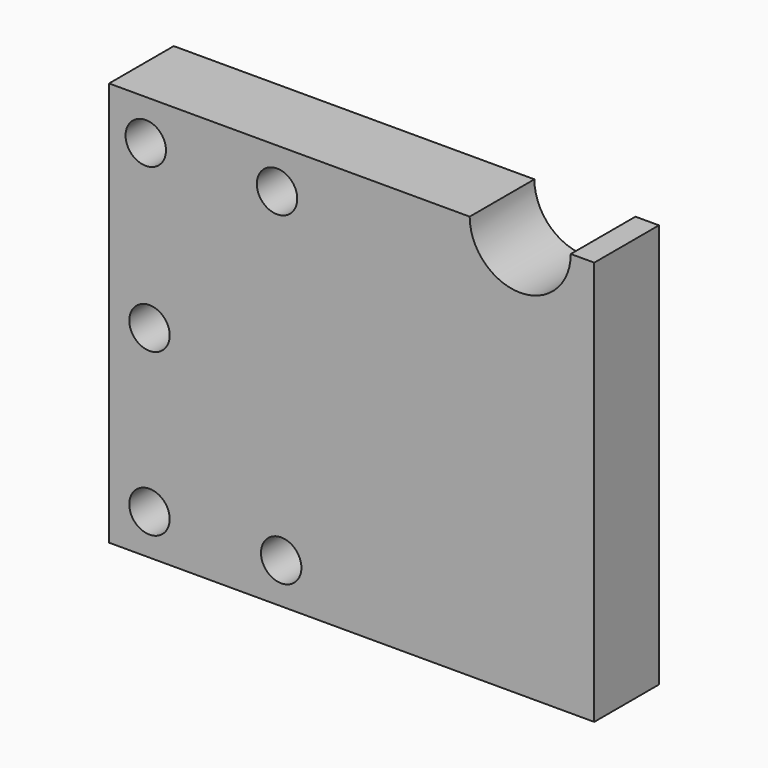
from build123d import *

# Parameters (mm, degrees)
F0_R     = 5
F2_DEPTH = 20


with BuildPart() as f2:
    # F0 (on Front) → F2 (new body)
    with BuildSketch(Plane.XZ):
        with BuildLine():
            Line((29.193788, 50), (-60, 50))
            Line((-60, 50), (-60, -50))
            Line((-60, -50), (60, -50))
            Line((60, -50), (60, 50))
            Line((60, 50), (54.193788, 50))
            ThreePointArc((54.193788, 50), (41.693788, 37.5), (29.193788, 50))
        make_face()
        with Locations((-50, -40)):
            Circle(F0_R, mode=Mode.SUBTRACT)
        with Locations((-17.42937, -40)):
            Circle(F0_R, mode=Mode.SUBTRACT)
        with Locations((-50, 0)):
            Circle(F0_R, mode=Mode.SUBTRACT)
        with Locations((-50.921101, 40)):
            Circle(F0_R, mode=Mode.SUBTRACT)
        with Locations((-18.454628, 40)):
            Circle(F0_R, mode=Mode.SUBTRACT)
    extrude(amount=F2_DEPTH)


solid = f2.part
